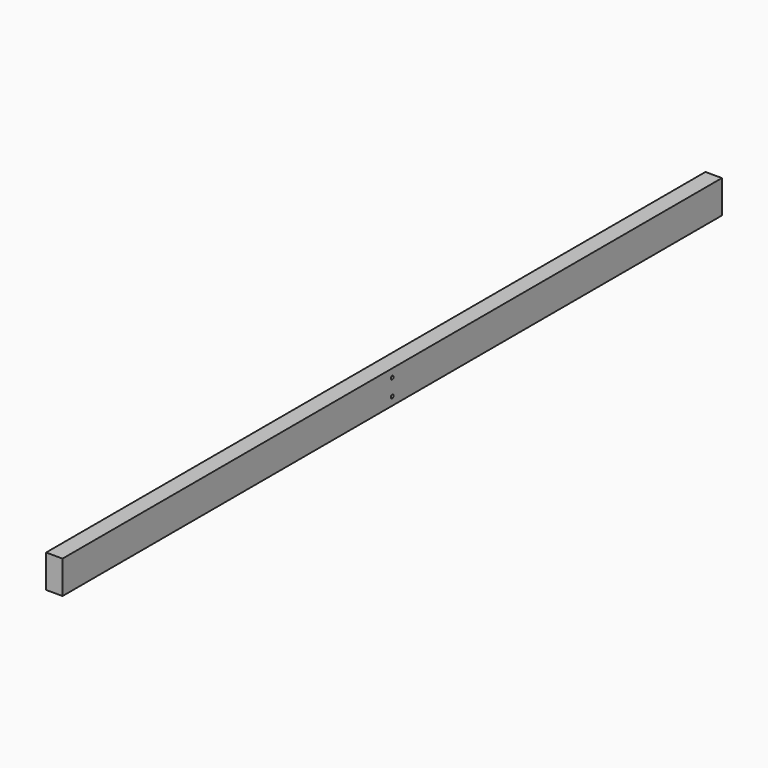
from build123d import *

# Parameters (mm, degrees)
F2_W     = 24
F2_H     = 48
F3_DEPTH = 1200
F5_DEPTH = 24


with BuildPart() as f3:
    # F2 (on Front) → F3 (new body)
    with BuildSketch(Plane.XZ):
        Rectangle(F2_W, F2_H)
        Rectangle(F2_W, F2_H)
    extrude(amount=F3_DEPTH)

    # F4 (on face) → F5 (cut)
    with BuildSketch(Plane(origin=(-12, 0, 0), x_dir=(0, -1, 0), z_dir=(-1, 0, 0))):
        with BuildLine():
            ThreePointArc((1402.5, 12), (1398.232233047, 13.767766953), (1400, 9.5))
            ThreePointArc((1400, 9.5), (1401.767766953, 10.232233047), (1402.5, 12))
        make_face()
        with BuildLine():
            ThreePointArc((1402.5, -12), (1401.767766953, -10.232233047), (1400, -9.5))
            ThreePointArc((1400, -9.5), (1398.232233047, -13.767766953), (1402.5, -12))
        make_face()
        with BuildLine():
            ThreePointArc((602.5, -12), (601.767766953, -10.232233047), (600, -9.5))
            ThreePointArc((600, -9.5), (598.232233047, -13.767766953), (602.5, -12))
        make_face()
        with BuildLine():
            ThreePointArc((602.5, 12), (598.232233047, 13.767766953), (600, 9.5))
            ThreePointArc((600, 9.5), (601.767766953, 10.232233047), (602.5, 12))
        make_face()
    extrude(amount=-F5_DEPTH, mode=Mode.SUBTRACT)


solid = f3.part
